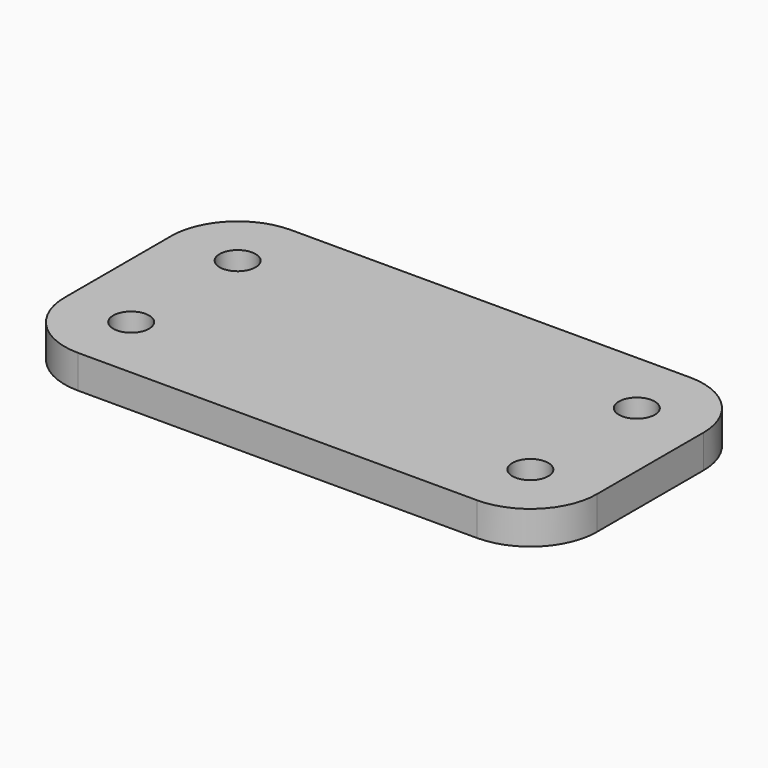
from build123d import *

# Parameters (mm, degrees)
SKETCH108_W     = 80
SKETCH108_H     = 40
PAD084_DEPTH    = 5
SKETCH109_R     = 2.7
POCKET028_DEPTH = 5.001
FILLET015_R     = 10


with BuildPart() as part:
    # Sketch108 → Pad084 (new body)
    with BuildSketch(Plane.XY):
        with Locations((40, 20)):
            Rectangle(SKETCH108_W, SKETCH108_H)
    extrude(amount=PAD084_DEPTH)

    # Sketch109 (on Face6 of Pad084) → Pocket028 (cut, through all)
    with BuildSketch(Plane.XY.offset(5)):
        with Locations((10, 30)):
            Circle(SKETCH109_R)
        with Locations((10, 10)):
            Circle(SKETCH109_R)
        with Locations((70, 30)):
            Circle(SKETCH109_R)
        with Locations((70, 10)):
            Circle(SKETCH109_R)
    extrude(amount=-POCKET028_DEPTH, mode=Mode.SUBTRACT)

    # Fillet015
    fillet015_edges = [part.edges().sort_by_distance(p)[0] for p in [
        (0, 0, 2.5),
        (0, 40, 2.5),
        (80, 0, 2.5),
        (80, 40, 2.5),
    ]]
    fillet(fillet015_edges, radius=FILLET015_R)


solid = part.part
